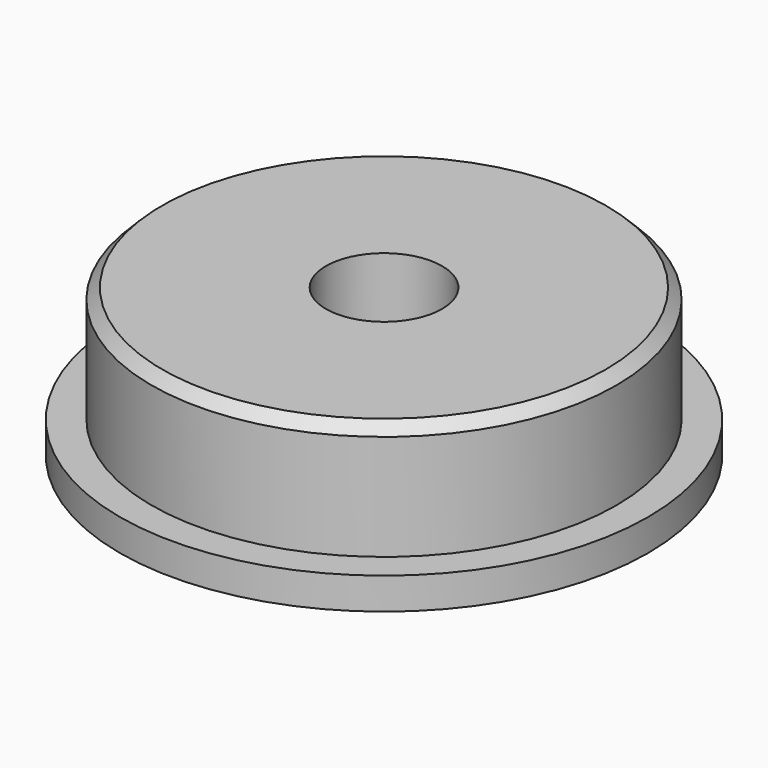
from build123d import *

# Parameters (mm, degrees)
F0_R     = 11
F0_R_2   = 2.75
F1_DEPTH = 7
F0_R_3   = 12.5
F2_DEPTH = 1.5
F3_SIZE  = 0.5
F4_SIZE  = 1


with BuildPart() as f1:
    # F0 (on Top) → F1 (new body)
    with BuildSketch(Plane.XY):
        Circle(F0_R)
        Circle(F0_R_2, mode=Mode.SUBTRACT)
    extrude(amount=F1_DEPTH)

    # F0 (on Top) → F2 (join)
    with BuildSketch(Plane.XY):
        Circle(F0_R_3)
        Circle(F0_R, mode=Mode.SUBTRACT)
    extrude(amount=F2_DEPTH)

    # F3
    f3_edges = [f1.edges().sort_by_distance(p)[0] for p in [
        (-11, 0, 7),
    ]]
    chamfer(f3_edges, length=F3_SIZE)

    # F4
    f4_edges = [f1.edges().sort_by_distance(p)[0] for p in [
        (-2.75, 0, 0),
    ]]
    chamfer(f4_edges, length=F4_SIZE)


solid = f1.part
